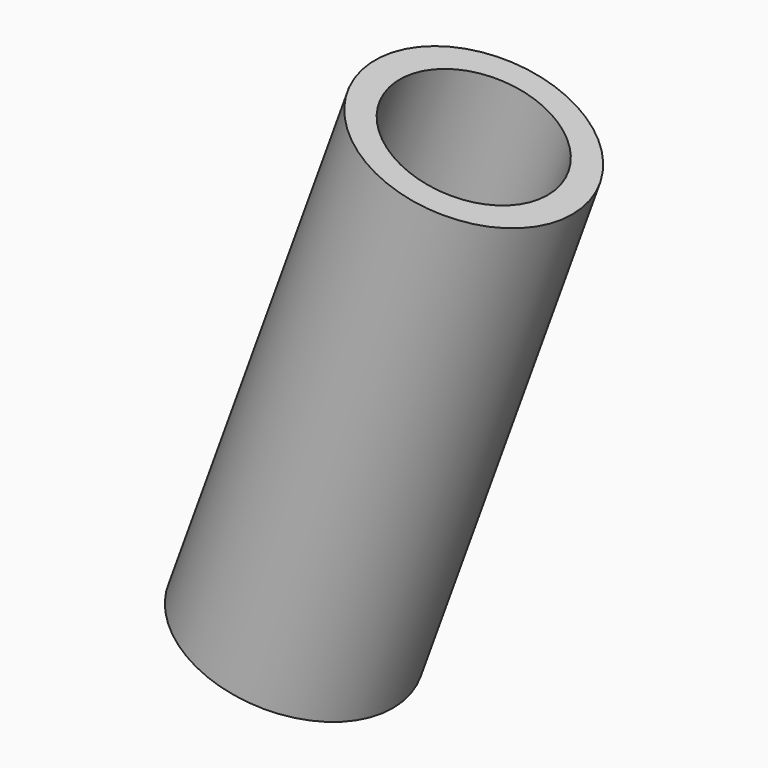
from build123d import *

# Parameters (mm, degrees)
CYLINDER001_R      = 3
CYLINDER001_DEPTH  = 20
CYLINDER_R         = 4
CYLINDER_DEPTH     = 20
CUT001_PITCH_ANGLE = 20


with BuildPart() as tubeinside:
    # Cylinder001 → Cylinder001 (new body)
    with BuildSketch(Plane.XY):
        Circle(CYLINDER001_R)
    extrude(amount=CYLINDER001_DEPTH)


with BuildPart() as tube:
    # Cylinder → Cylinder (new body)
    with BuildSketch(Plane.XY):
        Circle(CYLINDER_R)
    extrude(amount=CYLINDER_DEPTH)

    # Cut001: cut TubeInside
    add(tubeinside.part, mode=Mode.SUBTRACT)


with BuildPart() as tube_1:
    # Cut001 pitch: moved
    add(tube.part.rotate(Axis((0, 0, 0), (0, 1, 0)), CUT001_PITCH_ANGLE))


with BuildPart() as tube_2:
    # Cut001 placement: moved
    add(tube_1.part)


solid = tube_2.part
